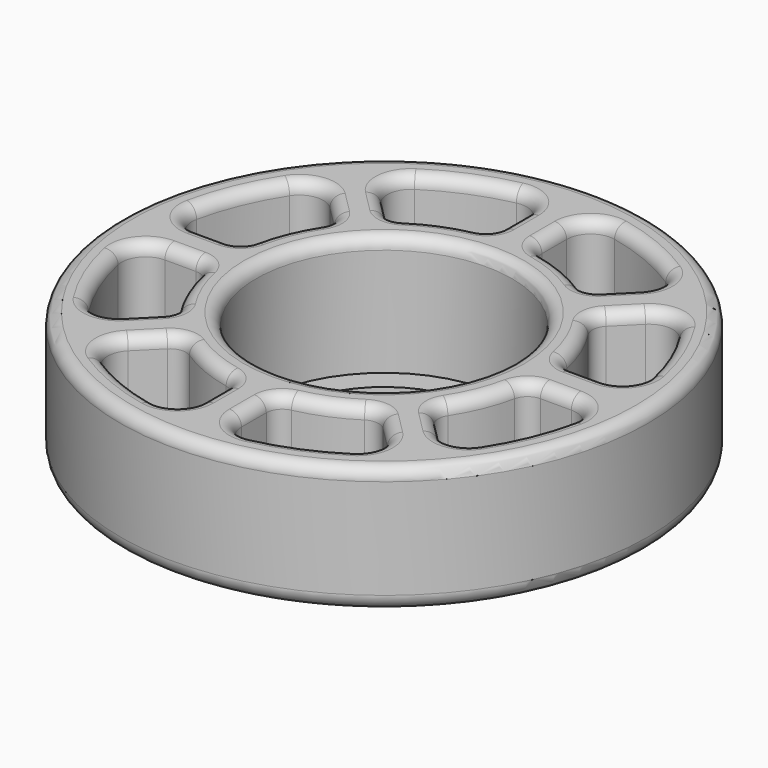
from build123d import *

# Parameters (mm, degrees)
F0_R     = 16
F0_R_2   = 13
F1_DEPTH = 1
F0_R_3   = 33
F2_DEPTH = 16
F4_DEPTH = 16
F5_R     = 3
F6_R     = 2
F7_R     = 1.5
F8_R     = 2


with BuildPart() as f1:
    # F0 (on Top) → F1 (new body)
    with BuildSketch(Plane.XY):
        Circle(F0_R)
        Circle(F0_R_2, mode=Mode.SUBTRACT)
    extrude(amount=F1_DEPTH)

    # F0 (on Top) → F2 (join)
    with BuildSketch(Plane.XY):
        Circle(F0_R_3)
        Circle(F0_R, mode=Mode.SUBTRACT)
    extrude(amount=F2_DEPTH)

    # F3 (on face) → F4 (cut)
    with BuildSketch(Plane.XY.offset(16)):
        with BuildLine():
            Line((-2.5, 19.843135), (-2.5, 28.89204))
            ThreePointArc((-2.5, 28.89204), (-11.09782, 26.792506), (-18.661991, 22.197525))
            Line((-18.661991, 22.197525), (-12.263448, 15.798982))
            ThreePointArc((-12.263448, 15.798982), (-7.653669, 18.477591), (-2.5, 19.843135))
        make_face()
        with BuildLine():
            ThreePointArc((18.661991, 22.197525), (11.09782, 26.792506), (2.5, 28.89204))
            Line((2.5, 28.89204), (2.5, 19.843135))
            ThreePointArc((2.5, 19.843135), (7.653669, 18.477591), (12.263448, 15.798982))
            Line((12.263448, 15.798982), (18.661991, 22.197525))
        make_face()
        with BuildLine():
            ThreePointArc((28.89204, 2.5), (26.792506, 11.09782), (22.197525, 18.661991))
            Line((22.197525, 18.661991), (15.798982, 12.263448))
            ThreePointArc((15.798982, 12.263448), (18.477591, 7.653669), (19.843135, 2.5))
            Line((19.843135, 2.5), (28.89204, 2.5))
        make_face()
        with BuildLine():
            ThreePointArc((22.197525, -18.661991), (26.792506, -11.09782), (28.89204, -2.5))
            Line((28.89204, -2.5), (19.843135, -2.5))
            ThreePointArc((19.843135, -2.5), (18.477591, -7.653669), (15.798982, -12.263448))
            Line((15.798982, -12.263448), (22.197525, -18.661991))
        make_face()
        with BuildLine():
            ThreePointArc((2.5, -28.89204), (11.09782, -26.792506), (18.661991, -22.197525))
            Line((18.661991, -22.197525), (12.263448, -15.798982))
            ThreePointArc((12.263448, -15.798982), (7.653669, -18.477591), (2.5, -19.843135))
            Line((2.5, -19.843135), (2.5, -28.89204))
        make_face()
        with BuildLine():
            Line((-12.263448, -15.798982), (-18.661991, -22.197525))
            ThreePointArc((-18.661991, -22.197525), (-11.09782, -26.792506), (-2.5, -28.89204))
            Line((-2.5, -28.89204), (-2.5, -19.843135))
            ThreePointArc((-2.5, -19.843135), (-7.653669, -18.477591), (-12.263448, -15.798982))
        make_face()
        with BuildLine():
            Line((-19.843135, -2.5), (-28.89204, -2.5))
            ThreePointArc((-28.89204, -2.5), (-26.792506, -11.09782), (-22.197525, -18.661991))
            Line((-22.197525, -18.661991), (-15.798982, -12.263448))
            ThreePointArc((-15.798982, -12.263448), (-18.477591, -7.653669), (-19.843135, -2.5))
        make_face()
        with BuildLine():
            Line((-15.798982, 12.263448), (-22.197525, 18.661991))
            ThreePointArc((-22.197525, 18.661991), (-26.792506, 11.09782), (-28.89204, 2.5))
            Line((-28.89204, 2.5), (-19.843135, 2.5))
            ThreePointArc((-19.843135, 2.5), (-18.477591, 7.653669), (-15.798982, 12.263448))
        make_face()
    extrude(amount=-F4_DEPTH, mode=Mode.SUBTRACT)

    # F5
    f5_edges = [f1.edges().sort_by_distance(p)[0] for p in [
        (-22.197525, 18.661991, 8),
        (2.5, 28.89204, 8),
        (22.197525, 18.661991, 8),
        (-28.89204, -2.5, 8),
        (-28.89204, 2.5, 8),
        (-22.197525, -18.661991, 8),
        (22.197525, -18.661991, 8),
        (28.89204, 2.5, 8),
        (18.661991, -22.197525, 8),
        (-2.5, -28.89204, 8),
        (28.89204, -2.5, 8),
        (-2.5, 28.89204, 8),
        (18.661991, 22.197525, 8),
        (-18.661991, 22.197525, 8),
        (-18.661991, -22.197525, 8),
        (2.5, -28.89204, 8),
    ]]
    fillet(f5_edges, radius=F5_R)

    # F6
    f6_edges = [f1.edges().sort_by_distance(p)[0] for p in [
        (-15.798982, -12.263448, 8),
        (-19.843135, 2.5, 8),
        (-2.5, 19.843135, 8),
        (-12.263448, 15.798982, 8),
        (2.5, 19.843135, 8),
        (19.843135, 2.5, 8),
        (-19.843135, -2.5, 8),
        (-12.263448, -15.798982, 8),
        (-2.5, -19.843135, 8),
        (12.263448, -15.798982, 8),
        (2.5, -19.843135, 8),
        (15.798982, -12.263448, 8),
        (12.263448, 15.798982, 8),
        (-15.798982, 12.263448, 8),
        (19.843135, -2.5, 8),
        (15.798982, 12.263448, 8),
    ]]
    fillet(f6_edges, radius=F6_R)

    # F7
    f7_edges = [f1.edges().sort_by_distance(p)[0] for p in [
        (-14.830316, -18.36585, 16),
        (-12.251097, -16.420022, 16),
        (-17.062614, -22.176928, 16),
        (-7.653669, -18.477591, 16),
        (-11.09782, -26.792506, 16),
        (-2.947875, -20.273543, 16),
        (-3.616366, -27.746547, 16),
        (-2.5, -23.473233, 16),
        (-33, 0, 16),
        (-16, 0, 16),
        (-18.36585, -14.830316, 16),
        (-16.420022, -12.251097, 16),
        (-22.176928, -17.062614, 16),
        (-18.477591, -7.653669, 16),
        (-26.792506, -11.09782, 16),
        (-20.273543, -2.947875, 16),
        (-27.746547, -3.616366, 16),
        (-23.473233, -2.5, 16),
        (14.830316, -18.36585, 16),
        (12.251097, -16.420022, 16),
        (17.062614, -22.176928, 16),
        (7.653669, -18.477591, 16),
        (11.09782, -26.792506, 16),
        (2.947875, -20.273543, 16),
        (3.616366, -27.746547, 16),
        (2.5, -23.473233, 16),
        (18.36585, -14.830316, 16),
        (16.420022, -12.251097, 16),
        (22.176928, -17.062614, 16),
        (18.477591, -7.653669, 16),
        (26.792506, -11.09782, 16),
        (20.273543, -2.947875, 16),
        (27.746547, -3.616366, 16),
        (23.473233, -2.5, 16),
        (-18.36585, 14.830316, 16),
        (-16.420022, 12.251097, 16),
        (-22.176928, 17.062614, 16),
        (-18.477591, 7.653669, 16),
        (-26.792506, 11.09782, 16),
        (-20.273543, 2.947875, 16),
        (-27.746547, 3.616366, 16),
        (-23.473233, 2.5, 16),
        (-14.830316, 18.36585, 16),
        (-12.251097, 16.420022, 16),
        (-17.062614, 22.176928, 16),
        (-7.653669, 18.477591, 16),
        (-11.09782, 26.792506, 16),
        (-2.947875, 20.273543, 16),
        (-3.616366, 27.746547, 16),
        (-2.5, 23.473233, 16),
        (23.473233, 2.5, 16),
        (20.273543, 2.947875, 16),
        (27.746547, 3.616366, 16),
        (18.477591, 7.653669, 16),
        (26.792506, 11.09782, 16),
        (16.420022, 12.251097, 16),
        (22.176928, 17.062614, 16),
        (18.36585, 14.830316, 16),
        (14.830316, 18.36585, 16),
        (12.251097, 16.420022, 16),
        (17.062614, 22.176928, 16),
        (7.653669, 18.477591, 16),
        (11.09782, 26.792506, 16),
        (2.947875, 20.273543, 16),
        (3.616366, 27.746547, 16),
        (2.5, 23.473233, 16),
    ]]
    fillet(f7_edges, radius=F7_R)

    # F8
    f8_edges = [f1.edges().sort_by_distance(p)[0] for p in [
        (-33, 0, 0),
    ]]
    fillet(f8_edges, radius=F8_R)


solid = f1.part
